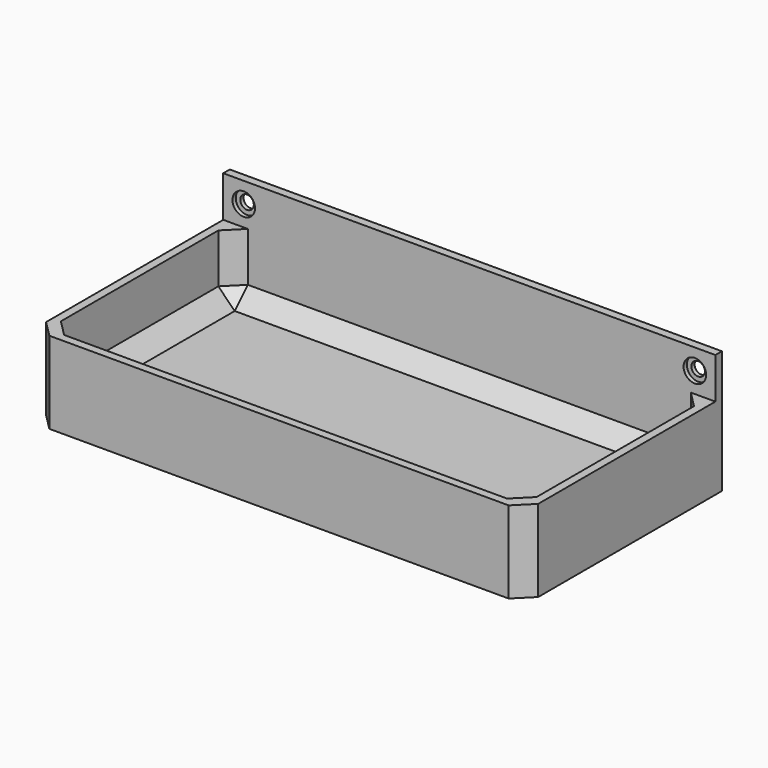
from build123d import *

# Parameters (mm, degrees)
F0_W     = 152.4
F0_H     = 76.2
F0_W_2   = 147.32
F0_H_2   = 71.12
F1_DEPTH = 25.4
F2_DEPTH = 5.08
F4_DEPTH = 12.7
F5_R     = 3.4925
F5_R_2   = 2.0955
F6_DEPTH = 1.27
F7_DEPTH = 25.4
F8_SIZE  = 5.08


with BuildPart() as f1:
    # F0 (on Top) → F1 (new body)
    with BuildSketch(Plane.XY):
        with Locations((76.2, 38.1)):
            Rectangle(F0_W, F0_H)
        with Locations((76.2, 38.1)):
            Rectangle(F0_W_2, F0_H_2, mode=Mode.SUBTRACT)
    extrude(amount=F1_DEPTH)

    # F0 (on Top) → F2 (join)
    with BuildSketch(Plane.XY):
        with Locations((76.2, 38.1)):
            Rectangle(F0_W, F0_H)
        with Locations((76.2, 38.1)):
            Rectangle(F0_W_2, F0_H_2, mode=Mode.SUBTRACT)
        with Locations((76.2, 38.1)):
            Rectangle(F0_W_2, F0_H_2)
    extrude(amount=F2_DEPTH)

    # F3 (on face) → F4 (join)
    with BuildSketch(Plane.XY.offset(25.4)):
        Polygon((0, 76.2), (0, 73.66), (2.54, 73.66), (149.86, 73.66), (152.4, 73.66), (152.4, 76.2), align=None)
    extrude(amount=F4_DEPTH)

    # F5 (on face) → F6 (cut)
    with BuildSketch(Plane.XZ.offset(-73.66)):
        with Locations((6.35, 31.75)):
            Circle(F5_R)
        with Locations((6.35, 31.75)):
            Circle(F5_R_2, mode=Mode.SUBTRACT)
        with Locations((146.05, 31.75)):
            Circle(F5_R)
        with Locations((146.05, 31.75)):
            Circle(F5_R_2, mode=Mode.SUBTRACT)
    extrude(amount=-F6_DEPTH, mode=Mode.SUBTRACT)

    # F7 (cut): faces of the model
    f7_faces = [f1.faces().sort_by_distance(p)[0] for p in [
        (6.35, 73.66, 31.75),
        (146.05, 73.66, 31.75),
    ]]
    extrude(f7_faces, amount=-F7_DEPTH, mode=Mode.SUBTRACT)

    # F8
    f8_edges = [f1.edges().sort_by_distance(p)[0] for p in [
        (2.54, 73.66, 15.24),
        (76.2, 73.66, 5.08),
        (2.54, 38.1, 5.08),
        (76.2, 2.54, 5.08),
        (149.86, 38.1, 5.08),
        (2.54, 2.54, 15.24),
        (149.86, 2.54, 15.24),
        (149.86, 73.66, 15.24),
        (0, 0, 12.7),
        (152.4, 0, 12.7),
    ]]
    chamfer(f8_edges, length=F8_SIZE)


solid = f1.part
